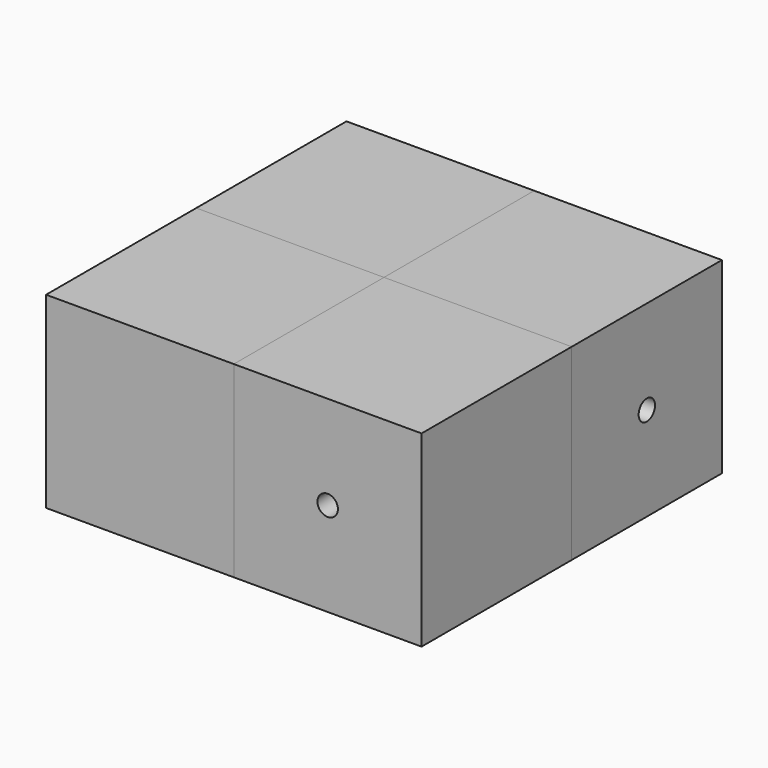
from build123d import *

# Parameters (mm, degrees)
F0_W     = 27.5
F0_H     = 27.5
F1_DEPTH = 27.5
F4_W     = 21.5
F4_H     = 21.5
F5_DEPTH = 21.5
F7_R     = 1.5
F8_DEPTH = 5
F9_COUNT = 4


with BuildPart() as f1:
    # F0 (on Top) → F1 (new body)
    with BuildSketch(Plane.XY):
        with Locations((-13.75, 13.75)):
            Rectangle(F0_W, F0_H)
    extrude(amount=F1_DEPTH)

    # F4 (on offset) → F5 (cut)
    with BuildSketch(Plane.XY.offset(3)):
        with Locations((-13.75, 13.75)):
            Rectangle(F4_W, F4_H)
    extrude(amount=F5_DEPTH, mode=Mode.SUBTRACT)

    # F7 (on face) → F8 (cut)
    with BuildSketch(Plane(origin=(0, 27.5, 0), x_dir=(-1, 0, 0), z_dir=(0, 1, 0))):
        with Locations((13.75, 13.75)):
            Circle(F7_R)
    extrude(amount=-F8_DEPTH, mode=Mode.SUBTRACT)


with BuildPart() as f9_1:
    # F9: instance of F1
    add(f1.part.rotate(Axis((0, 0, 13.75), (0, 0, -1)), 1 * 360 / F9_COUNT))


with BuildPart() as f9_2:
    # F9: instance of F1
    add(f1.part.rotate(Axis((0, 0, 13.75), (0, 0, -1)), 2 * 360 / F9_COUNT))


with BuildPart() as f9_3:
    # F9: instance of F1
    add(f1.part.rotate(Axis((0, 0, 13.75), (0, 0, -1)), 3 * 360 / F9_COUNT))


solid = Compound([f1.part, f9_1.part, f9_2.part, f9_3.part])
